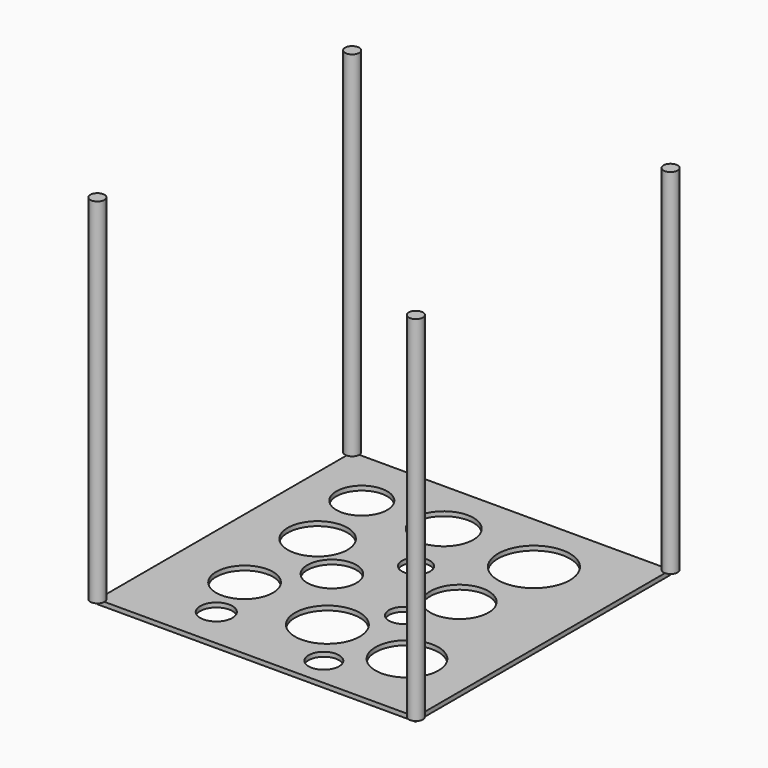
from build123d import *

# Parameters (mm, degrees)
F0_W     = 1800
F0_H     = 1800
F0_R     = 91.015885
F0_R_2   = 160.542429
F0_R_3   = 138.183302
F0_R_4   = 85.892958
F0_R_5   = 182.990019
F0_R_6   = 178.325427
F0_R_7   = 82.203981
F0_R_8   = 168.986277
F0_R_9   = 143.604574
F0_R_10  = 167.663839
F0_R_11  = 164.262773
F0_R_12  = 80.201658
F0_R_13  = 203.361422
F1_DEPTH = 25
F2_R     = 40
F3_DEPTH = 2000


with BuildPart() as f1:
    # F0 (on Top) → F1 (new body)
    with BuildSketch(Plane.XY):
        Rectangle(F0_W, F0_H)
        with Locations((-414.133489, -666.97377)):
            Circle(F0_R, mode=Mode.SUBTRACT)
        with Locations((-493.883044, -367.912889)):
            Circle(F0_R_2, mode=Mode.SUBTRACT)
        with Locations((-242.671937, -64.864568)):
            Circle(F0_R_3, mode=Mode.SUBTRACT)
        with Locations((247.787848, -734.76088)):
            Circle(F0_R_4, mode=Mode.SUBTRACT)
        with Locations((44.426516, -455.637455)):
            Circle(F0_R_5, mode=Mode.SUBTRACT)
        with Locations((522.923887, -491.524756)):
            Circle(F0_R_6, mode=Mode.SUBTRACT)
        with Locations((251.775354, -176.513955)):
            Circle(F0_R_7, mode=Mode.SUBTRACT)
        with Locations((-501.857996, 158.434197)):
            Circle(F0_R_8, mode=Mode.SUBTRACT)
        with Locations((-577.620089, 565.156937)):
            Circle(F0_R_9, mode=Mode.SUBTRACT)
        with Locations((-127.035052, 581.106901)):
            Circle(F0_R_10, mode=Mode.SUBTRACT)
        with Locations((363.424748, 78.684643)):
            Circle(F0_R_11, mode=Mode.SUBTRACT)
        with Locations((0, 226.221323)):
            Circle(F0_R_12, mode=Mode.SUBTRACT)
        with Locations((411.274463, 545.219541)):
            Circle(F0_R_13, mode=Mode.SUBTRACT)
    extrude(amount=F1_DEPTH)

    # F2 (on face) → F3 (join)
    with BuildSketch(Plane.XY.offset(25)):
        with Locations((900, 900)):
            Circle(F2_R)
        with Locations((900, -900)):
            Circle(F2_R)
        with Locations((-900, 900)):
            Circle(F2_R)
        with Locations((-900, -900)):
            Circle(F2_R)
    extrude(amount=F3_DEPTH)


solid = f1.part
